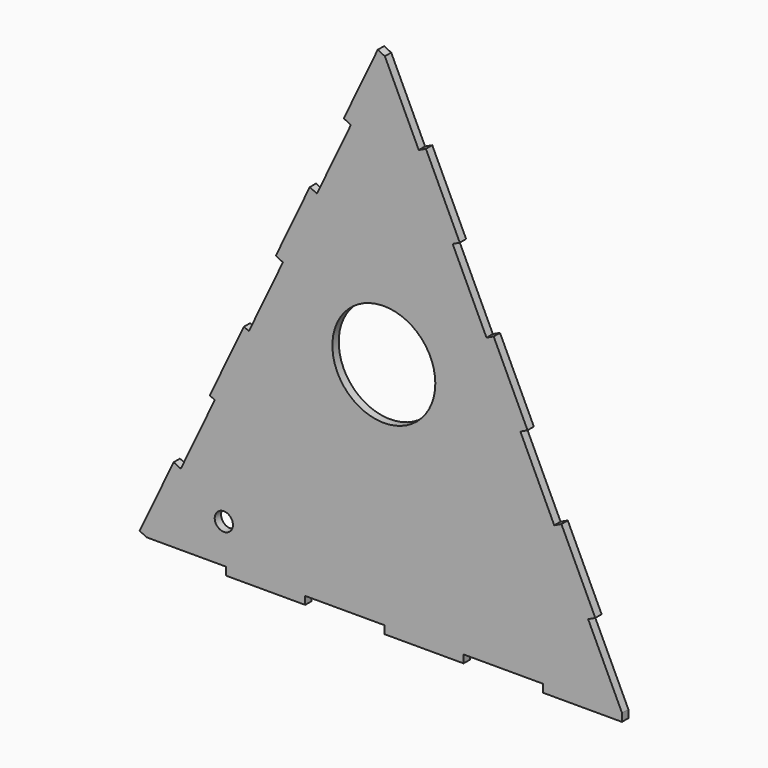
from build123d import *

# Parameters (mm, degrees)
F0_R     = 2.921
F0_R_2   = 16.51
F0_W     = 25.4
F0_H     = 2.54
F1_DEPTH = 2.54
F2_DEPTH = 2.54


with BuildPart() as f1:
    # F0 (on Front) → F1 (new body)
    with BuildSketch(Plane.XZ):
        Polygon((0, 86.929028), (-10.90126, 63.987308), (-21.80252, 41.045588), (-32.703781, 18.103867), (-43.605041, -4.837853), (-54.562222, -27.897259), (-65.463482, -50.838979), (-76.364742, -73.780699), (-50.964742, -73.780699), (-25.564742, -73.780699), (-0.152042, -73.780699), (25.247958, -73.780699), (50.647958, -73.780699), (76.060658, -73.780699), (65.19485, -50.822167), (54.329041, -27.863634), (43.463233, -4.905102), (32.597425, 18.053431), (21.731617, 41.011963), (10.865808, 63.970496), align=None)
        with Locations((-51.660795, -61.267498)):
            Circle(F0_R, mode=Mode.SUBTRACT)
        with Locations((-0.331624, -0.219197)):
            Circle(F0_R_2, mode=Mode.SUBTRACT)
        Polygon((-13.195432, 65.077434), (-10.90126, 63.987308), (0, 86.929028), (-2.294172, 88.019154), align=None)
        Polygon((-32.703781, 18.103867), (-21.80252, 41.045588), (-24.096692, 42.135714), (-34.997953, 19.193993), align=None)
        Polygon((13.161662, 65.057076), (10.865808, 63.970496), (21.731617, 41.011963), (24.02747, 42.098544), align=None)
        Polygon((-54.562222, -27.897259), (-43.605041, -4.837853), (-45.272266, -4.189892), (-56.173526, -27.131612), align=None)
        Polygon((34.893278, 19.140012), (32.597425, 18.053431), (43.463233, -4.905102), (45.759086, -3.818521), align=None)
        Polygon((-76.364742, -73.780699), (-65.463482, -50.838979), (-67.757654, -49.748853), (-78.658914, -72.690573), align=None)
        Polygon((56.624895, -26.777053), (54.329041, -27.863634), (65.19485, -50.822167), (67.490703, -49.735586), align=None)
        with Locations((-38.264742, -75.050699)):
            Rectangle(F0_W, F0_H)
        Polygon((76.047958, -76.320699), (76.060658, -73.780699), (50.647958, -73.780699), (50.647958, -76.320699), align=None)
        with Locations((12.547958, -75.050699)):
            Rectangle(F0_W, F0_H)
    extrude(amount=F1_DEPTH)

    # F0 (on Front) → F2 (join)
    with BuildSketch(Plane.XZ):
        Polygon((0, 86.929028), (-10.90126, 63.987308), (-21.80252, 41.045588), (-32.703781, 18.103867), (-43.605041, -4.837853), (-54.562222, -27.897259), (-65.463482, -50.838979), (-76.364742, -73.780699), (-50.964742, -73.780699), (-25.564742, -73.780699), (-0.152042, -73.780699), (25.247958, -73.780699), (50.647958, -73.780699), (76.060658, -73.780699), (65.19485, -50.822167), (54.329041, -27.863634), (43.463233, -4.905102), (32.597425, 18.053431), (21.731617, 41.011963), (10.865808, 63.970496), align=None)
        with Locations((-51.660795, -61.267498)):
            Circle(F0_R, mode=Mode.SUBTRACT)
        with Locations((-0.331624, -0.219197)):
            Circle(F0_R_2, mode=Mode.SUBTRACT)
        Polygon((-13.195432, 65.077434), (-10.90126, 63.987308), (0, 86.929028), (-2.294172, 88.019154), align=None)
        Polygon((-32.703781, 18.103867), (-21.80252, 41.045588), (-24.096692, 42.135714), (-34.997953, 19.193993), align=None)
        Polygon((13.161662, 65.057076), (10.865808, 63.970496), (21.731617, 41.011963), (24.02747, 42.098544), align=None)
        Polygon((-54.562222, -27.897259), (-43.605041, -4.837853), (-45.272266, -4.189892), (-56.173526, -27.131612), align=None)
        Polygon((34.893278, 19.140012), (32.597425, 18.053431), (43.463233, -4.905102), (45.759086, -3.818521), align=None)
        Polygon((-76.364742, -73.780699), (-65.463482, -50.838979), (-67.757654, -49.748853), (-78.658914, -72.690573), align=None)
        Polygon((56.624895, -26.777053), (54.329041, -27.863634), (65.19485, -50.822167), (67.490703, -49.735586), align=None)
        with Locations((-38.264742, -75.050699)):
            Rectangle(F0_W, F0_H)
        Polygon((76.047958, -76.320699), (76.060658, -73.780699), (50.647958, -73.780699), (50.647958, -76.320699), align=None)
        with Locations((12.547958, -75.050699)):
            Rectangle(F0_W, F0_H)
    extrude(amount=F2_DEPTH)


solid = f1.part
